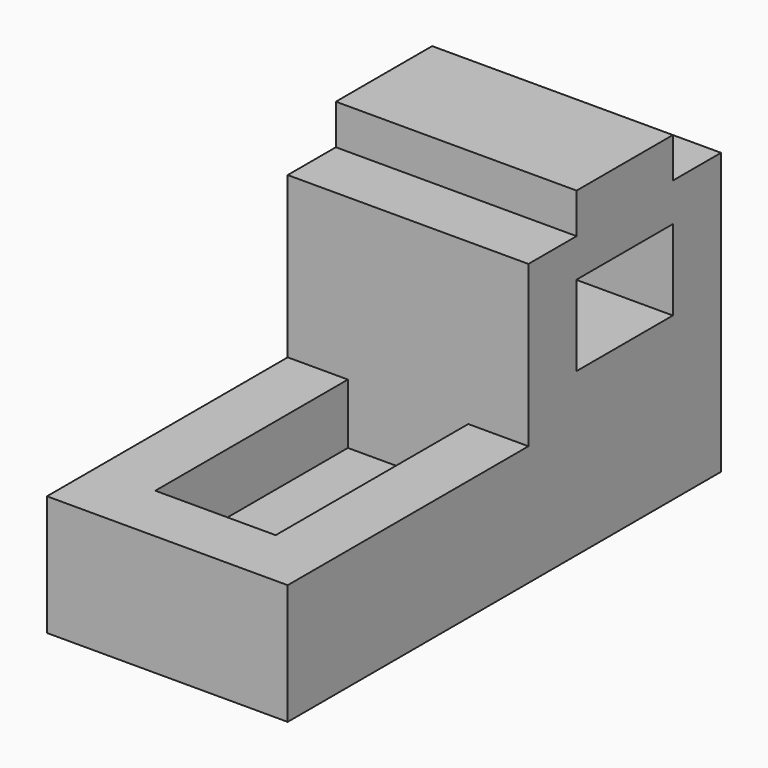
from build123d import *

# Parameters (mm, degrees)
F0_W     = 609.6
F0_H     = 407.804668
F1_DEPTH = 1219.2
F2_W     = 609.6
F2_H     = 1219.2
F3_DEPTH = 304.8


with BuildPart() as f1:
    # F0 (on Right) → F1 (new body)
    with BuildSketch(Plane.YZ):
        Polygon((0, 609.6), (0, 0), (2743.2, 0), (2743.2, 1422.4), (2438.4, 1422.4), (2438.4, 1625.6), (1828.8, 1625.6), (1828.8, 1422.4), (1524, 1422.4), (1524, 609.6), align=None)
        with Locations((2133.6, 1024.768025)):
            Rectangle(F0_W, F0_H, mode=Mode.SUBTRACT)
        Polygon((0, 609.6), (0, 0), (2743.2, 0), (2743.2, 1422.4), (2438.4, 1422.4), (2438.4, 1625.6), (1828.8, 1625.6), (1828.8, 1422.4), (1524, 1422.4), (1524, 609.6), align=None)
        with Locations((2133.6, 1024.768025)):
            Rectangle(F0_W, F0_H, mode=Mode.SUBTRACT)
    extrude(amount=F1_DEPTH)

    # F2 (on face) → F3 (cut)
    with BuildSketch(Plane.XY.offset(609.6)):
        with Locations((609.6, 914.4)):
            Rectangle(F2_W, F2_H)
    extrude(amount=-F3_DEPTH, mode=Mode.SUBTRACT)


solid = f1.part
